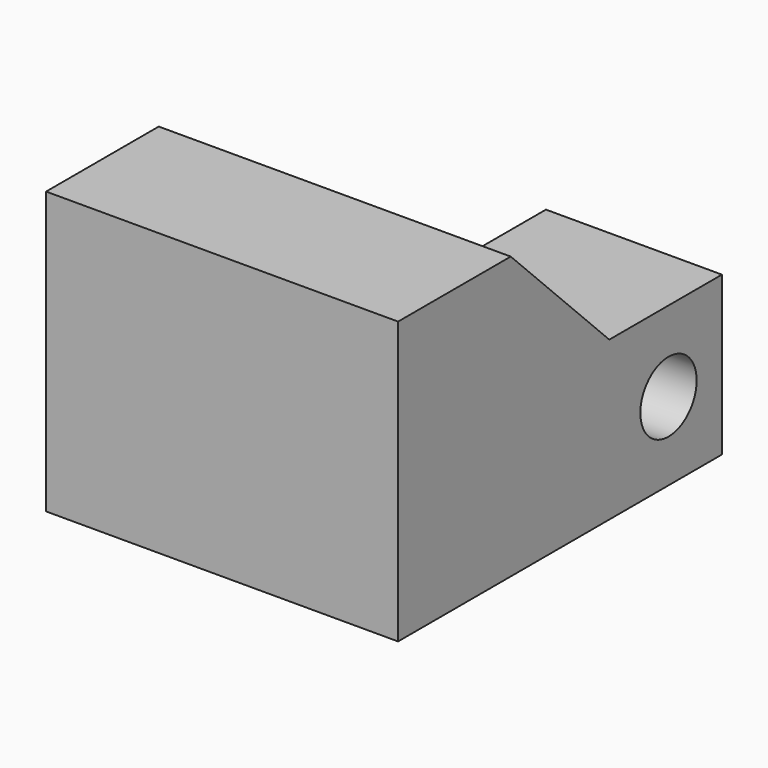
from build123d import *

# Parameters (mm, degrees)
F1_DEPTH = 5
F0_W     = 2
F0_H     = 2.25
F0_R     = 0.5
F2_DEPTH = 2.5


with BuildPart() as f1:
    # F0 (on Right) → F1 (new body)
    with BuildSketch(Plane.YZ):
        Polygon((0.074811, 4), (-1.925189, 4), (-1.925189, 0), (1.824811, 0), (1.824811, 2.25), align=None)
    extrude(amount=-F1_DEPTH)

    # F0 (on Right) → F2 (join)
    with BuildSketch(Plane.YZ):
        with Locations((2.824811, 1.125)):
            Rectangle(F0_W, F0_H)
        with Locations((2.876333, 1.108968)):
            Circle(F0_R, mode=Mode.SUBTRACT)
    extrude(amount=-F2_DEPTH)


solid = f1.part
